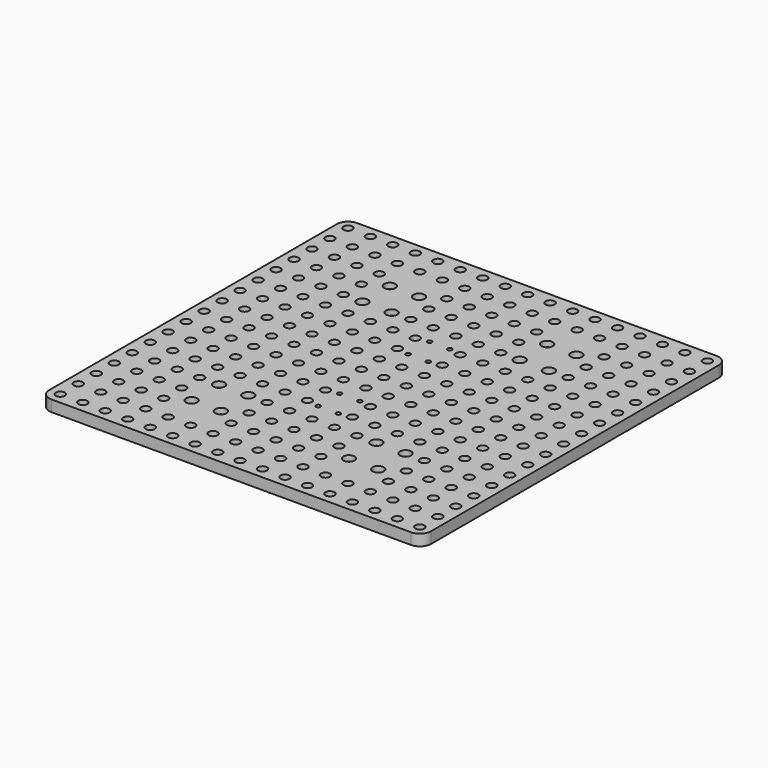
from build123d import *

# Parameters (mm, degrees)
F0_W     = 340
F0_H     = 340
F0_R     = 4
F0_R_2   = 2.5
F0_R_3   = 2
F1_DEPTH = 10
F2_R     = 10
F3_R     = 5
F4_DEPTH = 5


with BuildPart() as f1:
    # F0 (on Top) → F1 (new body)
    with BuildSketch(Plane.XY):
        with Locations((-32.867227, 6.198828)):
            Rectangle(F0_W, F0_H)
        with Locations((-192.967227, -153.801172)):
            Circle(F0_R, mode=Mode.SUBTRACT)
        with Locations((-172.967227, -153.801172)):
            Circle(F0_R, mode=Mode.SUBTRACT)
        with Locations((-192.967227, -133.801172)):
            Circle(F0_R, mode=Mode.SUBTRACT)
        with Locations((-172.967227, -133.801172)):
            Circle(F0_R, mode=Mode.SUBTRACT)
        with Locations((-152.967227, -153.801172)):
            Circle(F0_R, mode=Mode.SUBTRACT)
        with Locations((-132.967227, -153.801172)):
            Circle(F0_R, mode=Mode.SUBTRACT)
        with Locations((-152.967227, -133.801172)):
            Circle(F0_R, mode=Mode.SUBTRACT)
        with Locations((-132.967227, -133.801172)):
            Circle(F0_R, mode=Mode.SUBTRACT)
        with Locations((-192.967227, -113.801172)):
            Circle(F0_R, mode=Mode.SUBTRACT)
        with Locations((-172.967227, -113.801172)):
            Circle(F0_R, mode=Mode.SUBTRACT)
        with Locations((-192.967227, -93.801172)):
            Circle(F0_R, mode=Mode.SUBTRACT)
        with Locations((-172.967227, -93.801172)):
            Circle(F0_R, mode=Mode.SUBTRACT)
        with Locations((-152.967227, -113.801172)):
            Circle(F0_R, mode=Mode.SUBTRACT)
        with Locations((-132.967227, -113.801172)):
            Circle(F0_R, mode=Mode.SUBTRACT)
        with Locations((-152.967227, -93.801172)):
            Circle(F0_R, mode=Mode.SUBTRACT)
        with Locations((-132.967227, -93.801172)):
            Circle(F0_R, mode=Mode.SUBTRACT)
        with Locations((-112.967227, -153.801172)):
            Circle(F0_R, mode=Mode.SUBTRACT)
        with Locations((-92.967227, -153.801172)):
            Circle(F0_R, mode=Mode.SUBTRACT)
        with Locations((-112.967227, -133.801172)):
            Circle(F0_R, mode=Mode.SUBTRACT)
        with Locations((-92.967227, -133.801172)):
            Circle(F0_R, mode=Mode.SUBTRACT)
        with Locations((-72.967227, -153.801172)):
            Circle(F0_R, mode=Mode.SUBTRACT)
        with Locations((-52.967227, -153.801172)):
            Circle(F0_R, mode=Mode.SUBTRACT)
        with Locations((-32.967227, -153.801172)):
            Circle(F0_R, mode=Mode.SUBTRACT)
        with Locations((-72.967227, -133.801172)):
            Circle(F0_R, mode=Mode.SUBTRACT)
        with Locations((-52.967227, -133.801172)):
            Circle(F0_R, mode=Mode.SUBTRACT)
        with Locations((-32.967227, -133.801172)):
            Circle(F0_R, mode=Mode.SUBTRACT)
        with Locations((-115.867227, -104.051172)):
            Circle(F0_R_2, mode=Mode.SUBTRACT)
        with Locations((-89.867227, -104.051172)):
            Circle(F0_R_2, mode=Mode.SUBTRACT)
        with Locations((-72.967227, -113.801172)):
            Circle(F0_R, mode=Mode.SUBTRACT)
        with Locations((-52.967227, -113.801172)):
            Circle(F0_R, mode=Mode.SUBTRACT)
        with Locations((-32.967227, -113.801172)):
            Circle(F0_R, mode=Mode.SUBTRACT)
        with Locations((-72.967227, -93.801172)):
            Circle(F0_R, mode=Mode.SUBTRACT)
        with Locations((-52.967227, -93.801172)):
            Circle(F0_R, mode=Mode.SUBTRACT)
        with Locations((-32.967227, -93.801172)):
            Circle(F0_R, mode=Mode.SUBTRACT)
        with Locations((-192.967227, -73.801172)):
            Circle(F0_R, mode=Mode.SUBTRACT)
        with Locations((-172.967227, -73.801172)):
            Circle(F0_R, mode=Mode.SUBTRACT)
        with Locations((-192.967227, -53.801172)):
            Circle(F0_R, mode=Mode.SUBTRACT)
        with Locations((-172.967227, -53.801172)):
            Circle(F0_R, mode=Mode.SUBTRACT)
        with Locations((-152.967227, -73.801172)):
            Circle(F0_R, mode=Mode.SUBTRACT)
        with Locations((-132.967227, -73.801172)):
            Circle(F0_R, mode=Mode.SUBTRACT)
        with Locations((-152.967227, -53.801172)):
            Circle(F0_R, mode=Mode.SUBTRACT)
        with Locations((-132.967227, -53.801172)):
            Circle(F0_R, mode=Mode.SUBTRACT)
        with Locations((-192.967227, -33.801172)):
            Circle(F0_R, mode=Mode.SUBTRACT)
        with Locations((-172.967227, -33.801172)):
            Circle(F0_R, mode=Mode.SUBTRACT)
        with Locations((-192.967227, -13.801172)):
            Circle(F0_R, mode=Mode.SUBTRACT)
        with Locations((-192.967227, 6.198828)):
            Circle(F0_R, mode=Mode.SUBTRACT)
        with Locations((-172.967227, -13.801172)):
            Circle(F0_R, mode=Mode.SUBTRACT)
        with Locations((-172.967227, 6.198828)):
            Circle(F0_R, mode=Mode.SUBTRACT)
        with Locations((-152.967227, -33.801172)):
            Circle(F0_R, mode=Mode.SUBTRACT)
        with Locations((-132.967227, -33.801172)):
            Circle(F0_R, mode=Mode.SUBTRACT)
        with Locations((-152.967227, -13.801172)):
            Circle(F0_R, mode=Mode.SUBTRACT)
        with Locations((-152.967227, 6.198828)):
            Circle(F0_R, mode=Mode.SUBTRACT)
        with Locations((-132.967227, -13.801172)):
            Circle(F0_R, mode=Mode.SUBTRACT)
        with Locations((-132.967227, 6.198828)):
            Circle(F0_R, mode=Mode.SUBTRACT)
        with Locations((-115.867227, -73.551172)):
            Circle(F0_R_2, mode=Mode.SUBTRACT)
        with Locations((-89.867227, -73.551172)):
            Circle(F0_R_2, mode=Mode.SUBTRACT)
        with Locations((-112.967227, -53.801172)):
            Circle(F0_R, mode=Mode.SUBTRACT)
        with Locations((-92.967227, -53.801172)):
            Circle(F0_R, mode=Mode.SUBTRACT)
        with Locations((-72.967227, -73.801172)):
            Circle(F0_R, mode=Mode.SUBTRACT)
        with Locations((-52.967227, -73.801172)):
            Circle(F0_R, mode=Mode.SUBTRACT)
        with Locations((-32.967227, -73.801172)):
            Circle(F0_R, mode=Mode.SUBTRACT)
        with Locations((-72.967227, -53.801172)):
            Circle(F0_R, mode=Mode.SUBTRACT)
        with Locations((-52.967227, -53.801172)):
            Circle(F0_R, mode=Mode.SUBTRACT)
        with Locations((-41.867227, -55.801172)):
            Circle(F0_R_3, mode=Mode.SUBTRACT)
        with Locations((-112.967227, -33.801172)):
            Circle(F0_R, mode=Mode.SUBTRACT)
        with Locations((-92.967227, -33.801172)):
            Circle(F0_R, mode=Mode.SUBTRACT)
        with Locations((-112.967227, -13.801172)):
            Circle(F0_R, mode=Mode.SUBTRACT)
        with Locations((-112.967227, 6.198828)):
            Circle(F0_R, mode=Mode.SUBTRACT)
        with Locations((-92.967227, -13.801172)):
            Circle(F0_R, mode=Mode.SUBTRACT)
        with Locations((-92.967227, 6.198828)):
            Circle(F0_R, mode=Mode.SUBTRACT)
        with Locations((-72.967227, -33.801172)):
            Circle(F0_R, mode=Mode.SUBTRACT)
        with Locations((-52.967227, -33.801172)):
            Circle(F0_R, mode=Mode.SUBTRACT)
        with Locations((-41.867227, -31.801172)):
            Circle(F0_R_3, mode=Mode.SUBTRACT)
        with Locations((-72.967227, -13.801172)):
            Circle(F0_R, mode=Mode.SUBTRACT)
        with Locations((-72.967227, 6.198828)):
            Circle(F0_R, mode=Mode.SUBTRACT)
        with Locations((-52.967227, -13.801172)):
            Circle(F0_R, mode=Mode.SUBTRACT)
        with Locations((-32.967227, -13.801172)):
            Circle(F0_R, mode=Mode.SUBTRACT)
        with Locations((-52.967227, 6.198828)):
            Circle(F0_R, mode=Mode.SUBTRACT)
        with Locations((-32.967227, 6.198828)):
            Circle(F0_R, mode=Mode.SUBTRACT)
        with Locations((-12.967227, -153.801172)):
            Circle(F0_R, mode=Mode.SUBTRACT)
        with Locations((7.032773, -153.801172)):
            Circle(F0_R, mode=Mode.SUBTRACT)
        with Locations((-12.967227, -133.801172)):
            Circle(F0_R, mode=Mode.SUBTRACT)
        with Locations((7.032773, -133.801172)):
            Circle(F0_R, mode=Mode.SUBTRACT)
        with Locations((27.032773, -153.801172)):
            Circle(F0_R, mode=Mode.SUBTRACT)
        with Locations((47.032773, -153.801172)):
            Circle(F0_R, mode=Mode.SUBTRACT)
        with Locations((27.032773, -133.801172)):
            Circle(F0_R, mode=Mode.SUBTRACT)
        with Locations((47.032773, -133.801172)):
            Circle(F0_R, mode=Mode.SUBTRACT)
        with Locations((-12.967227, -113.801172)):
            Circle(F0_R, mode=Mode.SUBTRACT)
        with Locations((7.032773, -113.801172)):
            Circle(F0_R, mode=Mode.SUBTRACT)
        with Locations((-12.967227, -93.801172)):
            Circle(F0_R, mode=Mode.SUBTRACT)
        with Locations((7.032773, -93.801172)):
            Circle(F0_R, mode=Mode.SUBTRACT)
        with Locations((24.132773, -104.051172)):
            Circle(F0_R_2, mode=Mode.SUBTRACT)
        with Locations((50.132773, -104.051172)):
            Circle(F0_R_2, mode=Mode.SUBTRACT)
        with Locations((67.032773, -153.801172)):
            Circle(F0_R, mode=Mode.SUBTRACT)
        with Locations((87.032773, -153.801172)):
            Circle(F0_R, mode=Mode.SUBTRACT)
        with Locations((67.032773, -133.801172)):
            Circle(F0_R, mode=Mode.SUBTRACT)
        with Locations((87.032773, -133.801172)):
            Circle(F0_R, mode=Mode.SUBTRACT)
        with Locations((107.032773, -153.801172)):
            Circle(F0_R, mode=Mode.SUBTRACT)
        with Locations((127.032773, -153.801172)):
            Circle(F0_R, mode=Mode.SUBTRACT)
        with Locations((107.032773, -133.801172)):
            Circle(F0_R, mode=Mode.SUBTRACT)
        with Locations((127.032773, -133.801172)):
            Circle(F0_R, mode=Mode.SUBTRACT)
        with Locations((67.032773, -113.801172)):
            Circle(F0_R, mode=Mode.SUBTRACT)
        with Locations((87.032773, -113.801172)):
            Circle(F0_R, mode=Mode.SUBTRACT)
        with Locations((67.032773, -93.801172)):
            Circle(F0_R, mode=Mode.SUBTRACT)
        with Locations((87.032773, -93.801172)):
            Circle(F0_R, mode=Mode.SUBTRACT)
        with Locations((107.032773, -113.801172)):
            Circle(F0_R, mode=Mode.SUBTRACT)
        with Locations((127.032773, -113.801172)):
            Circle(F0_R, mode=Mode.SUBTRACT)
        with Locations((107.032773, -93.801172)):
            Circle(F0_R, mode=Mode.SUBTRACT)
        with Locations((127.032773, -93.801172)):
            Circle(F0_R, mode=Mode.SUBTRACT)
        with Locations((-12.967227, -73.801172)):
            Circle(F0_R, mode=Mode.SUBTRACT)
        with Locations((7.032773, -73.801172)):
            Circle(F0_R, mode=Mode.SUBTRACT)
        with Locations((-23.867227, -55.801172)):
            Circle(F0_R_3, mode=Mode.SUBTRACT)
        with Locations((-12.967227, -53.801172)):
            Circle(F0_R, mode=Mode.SUBTRACT)
        with Locations((7.032773, -53.801172)):
            Circle(F0_R, mode=Mode.SUBTRACT)
        with Locations((24.132773, -73.551172)):
            Circle(F0_R_2, mode=Mode.SUBTRACT)
        with Locations((50.132773, -73.551172)):
            Circle(F0_R_2, mode=Mode.SUBTRACT)
        with Locations((27.032773, -53.801172)):
            Circle(F0_R, mode=Mode.SUBTRACT)
        with Locations((47.032773, -53.801172)):
            Circle(F0_R, mode=Mode.SUBTRACT)
        with Locations((-23.867227, -31.801172)):
            Circle(F0_R_3, mode=Mode.SUBTRACT)
        with Locations((-12.967227, -33.801172)):
            Circle(F0_R, mode=Mode.SUBTRACT)
        with Locations((7.032773, -33.801172)):
            Circle(F0_R, mode=Mode.SUBTRACT)
        with Locations((-12.967227, -13.801172)):
            Circle(F0_R, mode=Mode.SUBTRACT)
        with Locations((-12.967227, 6.198828)):
            Circle(F0_R, mode=Mode.SUBTRACT)
        with Locations((7.032773, -13.801172)):
            Circle(F0_R, mode=Mode.SUBTRACT)
        with Locations((7.032773, 6.198828)):
            Circle(F0_R, mode=Mode.SUBTRACT)
        with Locations((27.032773, -33.801172)):
            Circle(F0_R, mode=Mode.SUBTRACT)
        with Locations((47.032773, -33.801172)):
            Circle(F0_R, mode=Mode.SUBTRACT)
        with Locations((27.032773, -13.801172)):
            Circle(F0_R, mode=Mode.SUBTRACT)
        with Locations((27.032773, 6.198828)):
            Circle(F0_R, mode=Mode.SUBTRACT)
        with Locations((47.032773, -13.801172)):
            Circle(F0_R, mode=Mode.SUBTRACT)
        with Locations((47.032773, 6.198828)):
            Circle(F0_R, mode=Mode.SUBTRACT)
        with Locations((67.032773, -73.801172)):
            Circle(F0_R, mode=Mode.SUBTRACT)
        with Locations((87.032773, -73.801172)):
            Circle(F0_R, mode=Mode.SUBTRACT)
        with Locations((67.032773, -53.801172)):
            Circle(F0_R, mode=Mode.SUBTRACT)
        with Locations((87.032773, -53.801172)):
            Circle(F0_R, mode=Mode.SUBTRACT)
        with Locations((107.032773, -73.801172)):
            Circle(F0_R, mode=Mode.SUBTRACT)
        with Locations((127.032773, -73.801172)):
            Circle(F0_R, mode=Mode.SUBTRACT)
        with Locations((107.032773, -53.801172)):
            Circle(F0_R, mode=Mode.SUBTRACT)
        with Locations((127.032773, -53.801172)):
            Circle(F0_R, mode=Mode.SUBTRACT)
        with Locations((67.032773, -33.801172)):
            Circle(F0_R, mode=Mode.SUBTRACT)
        with Locations((87.032773, -33.801172)):
            Circle(F0_R, mode=Mode.SUBTRACT)
        with Locations((67.032773, -13.801172)):
            Circle(F0_R, mode=Mode.SUBTRACT)
        with Locations((67.032773, 6.198828)):
            Circle(F0_R, mode=Mode.SUBTRACT)
        with Locations((87.032773, -13.801172)):
            Circle(F0_R, mode=Mode.SUBTRACT)
        with Locations((87.032773, 6.198828)):
            Circle(F0_R, mode=Mode.SUBTRACT)
        with Locations((107.032773, -33.801172)):
            Circle(F0_R, mode=Mode.SUBTRACT)
        with Locations((127.032773, -33.801172)):
            Circle(F0_R, mode=Mode.SUBTRACT)
        with Locations((107.032773, -13.801172)):
            Circle(F0_R, mode=Mode.SUBTRACT)
        with Locations((107.032773, 6.198828)):
            Circle(F0_R, mode=Mode.SUBTRACT)
        with Locations((127.032773, -13.801172)):
            Circle(F0_R, mode=Mode.SUBTRACT)
        with Locations((127.032773, 6.198828)):
            Circle(F0_R, mode=Mode.SUBTRACT)
        with Locations((-192.967227, 26.198828)):
            Circle(F0_R, mode=Mode.SUBTRACT)
        with Locations((-172.967227, 26.198828)):
            Circle(F0_R, mode=Mode.SUBTRACT)
        with Locations((-192.967227, 46.198828)):
            Circle(F0_R, mode=Mode.SUBTRACT)
        with Locations((-172.967227, 46.198828)):
            Circle(F0_R, mode=Mode.SUBTRACT)
        with Locations((-152.967227, 26.198828)):
            Circle(F0_R, mode=Mode.SUBTRACT)
        with Locations((-132.967227, 26.198828)):
            Circle(F0_R, mode=Mode.SUBTRACT)
        with Locations((-152.967227, 46.198828)):
            Circle(F0_R, mode=Mode.SUBTRACT)
        with Locations((-132.967227, 46.198828)):
            Circle(F0_R, mode=Mode.SUBTRACT)
        with Locations((-192.967227, 66.198828)):
            Circle(F0_R, mode=Mode.SUBTRACT)
        with Locations((-172.967227, 66.198828)):
            Circle(F0_R, mode=Mode.SUBTRACT)
        with Locations((-192.967227, 86.198828)):
            Circle(F0_R, mode=Mode.SUBTRACT)
        with Locations((-172.967227, 86.198828)):
            Circle(F0_R, mode=Mode.SUBTRACT)
        with Locations((-152.967227, 66.198828)):
            Circle(F0_R, mode=Mode.SUBTRACT)
        with Locations((-132.967227, 66.198828)):
            Circle(F0_R, mode=Mode.SUBTRACT)
        with Locations((-152.967227, 86.198828)):
            Circle(F0_R, mode=Mode.SUBTRACT)
        with Locations((-132.967227, 86.198828)):
            Circle(F0_R, mode=Mode.SUBTRACT)
        with Locations((-112.967227, 26.198828)):
            Circle(F0_R, mode=Mode.SUBTRACT)
        with Locations((-92.967227, 26.198828)):
            Circle(F0_R, mode=Mode.SUBTRACT)
        with Locations((-112.967227, 46.198828)):
            Circle(F0_R, mode=Mode.SUBTRACT)
        with Locations((-92.967227, 46.198828)):
            Circle(F0_R, mode=Mode.SUBTRACT)
        with Locations((-72.967227, 26.198828)):
            Circle(F0_R, mode=Mode.SUBTRACT)
        with Locations((-52.967227, 26.198828)):
            Circle(F0_R, mode=Mode.SUBTRACT)
        with Locations((-32.967227, 26.198828)):
            Circle(F0_R, mode=Mode.SUBTRACT)
        with Locations((-72.967227, 46.198828)):
            Circle(F0_R, mode=Mode.SUBTRACT)
        with Locations((-52.967227, 46.198828)):
            Circle(F0_R, mode=Mode.SUBTRACT)
        with Locations((-41.867227, 44.198828)):
            Circle(F0_R_3, mode=Mode.SUBTRACT)
        with Locations((-112.967227, 66.198828)):
            Circle(F0_R, mode=Mode.SUBTRACT)
        with Locations((-92.967227, 66.198828)):
            Circle(F0_R, mode=Mode.SUBTRACT)
        with Locations((-115.867227, 85.948828)):
            Circle(F0_R_2, mode=Mode.SUBTRACT)
        with Locations((-89.867227, 85.948828)):
            Circle(F0_R_2, mode=Mode.SUBTRACT)
        with Locations((-72.967227, 66.198828)):
            Circle(F0_R, mode=Mode.SUBTRACT)
        with Locations((-52.967227, 66.198828)):
            Circle(F0_R, mode=Mode.SUBTRACT)
        with Locations((-41.867227, 68.198828)):
            Circle(F0_R_3, mode=Mode.SUBTRACT)
        with Locations((-72.967227, 86.198828)):
            Circle(F0_R, mode=Mode.SUBTRACT)
        with Locations((-52.967227, 86.198828)):
            Circle(F0_R, mode=Mode.SUBTRACT)
        with Locations((-32.967227, 86.198828)):
            Circle(F0_R, mode=Mode.SUBTRACT)
        with Locations((-192.967227, 106.198828)):
            Circle(F0_R, mode=Mode.SUBTRACT)
        with Locations((-172.967227, 106.198828)):
            Circle(F0_R, mode=Mode.SUBTRACT)
        with Locations((-192.967227, 126.198828)):
            Circle(F0_R, mode=Mode.SUBTRACT)
        with Locations((-172.967227, 126.198828)):
            Circle(F0_R, mode=Mode.SUBTRACT)
        with Locations((-152.967227, 106.198828)):
            Circle(F0_R, mode=Mode.SUBTRACT)
        with Locations((-132.967227, 106.198828)):
            Circle(F0_R, mode=Mode.SUBTRACT)
        with Locations((-152.967227, 126.198828)):
            Circle(F0_R, mode=Mode.SUBTRACT)
        with Locations((-132.967227, 126.198828)):
            Circle(F0_R, mode=Mode.SUBTRACT)
        with Locations((-192.967227, 146.198828)):
            Circle(F0_R, mode=Mode.SUBTRACT)
        with Locations((-172.967227, 146.198828)):
            Circle(F0_R, mode=Mode.SUBTRACT)
        with Locations((-192.967227, 166.198828)):
            Circle(F0_R, mode=Mode.SUBTRACT)
        with Locations((-172.967227, 166.198828)):
            Circle(F0_R, mode=Mode.SUBTRACT)
        with Locations((-152.967227, 146.198828)):
            Circle(F0_R, mode=Mode.SUBTRACT)
        with Locations((-132.967227, 146.198828)):
            Circle(F0_R, mode=Mode.SUBTRACT)
        with Locations((-152.967227, 166.198828)):
            Circle(F0_R, mode=Mode.SUBTRACT)
        with Locations((-132.967227, 166.198828)):
            Circle(F0_R, mode=Mode.SUBTRACT)
        with Locations((-115.867227, 116.448828)):
            Circle(F0_R_2, mode=Mode.SUBTRACT)
        with Locations((-89.867227, 116.448828)):
            Circle(F0_R_2, mode=Mode.SUBTRACT)
        with Locations((-72.967227, 106.198828)):
            Circle(F0_R, mode=Mode.SUBTRACT)
        with Locations((-52.967227, 106.198828)):
            Circle(F0_R, mode=Mode.SUBTRACT)
        with Locations((-32.967227, 106.198828)):
            Circle(F0_R, mode=Mode.SUBTRACT)
        with Locations((-72.967227, 126.198828)):
            Circle(F0_R, mode=Mode.SUBTRACT)
        with Locations((-52.967227, 126.198828)):
            Circle(F0_R, mode=Mode.SUBTRACT)
        with Locations((-32.967227, 126.198828)):
            Circle(F0_R, mode=Mode.SUBTRACT)
        with Locations((-112.967227, 146.198828)):
            Circle(F0_R, mode=Mode.SUBTRACT)
        with Locations((-92.967227, 146.198828)):
            Circle(F0_R, mode=Mode.SUBTRACT)
        with Locations((-112.967227, 166.198828)):
            Circle(F0_R, mode=Mode.SUBTRACT)
        with Locations((-92.967227, 166.198828)):
            Circle(F0_R, mode=Mode.SUBTRACT)
        with Locations((-72.967227, 146.198828)):
            Circle(F0_R, mode=Mode.SUBTRACT)
        with Locations((-52.967227, 146.198828)):
            Circle(F0_R, mode=Mode.SUBTRACT)
        with Locations((-32.967227, 146.198828)):
            Circle(F0_R, mode=Mode.SUBTRACT)
        with Locations((-72.967227, 166.198828)):
            Circle(F0_R, mode=Mode.SUBTRACT)
        with Locations((-52.967227, 166.198828)):
            Circle(F0_R, mode=Mode.SUBTRACT)
        with Locations((-32.967227, 166.198828)):
            Circle(F0_R, mode=Mode.SUBTRACT)
        with Locations((-12.967227, 26.198828)):
            Circle(F0_R, mode=Mode.SUBTRACT)
        with Locations((7.032773, 26.198828)):
            Circle(F0_R, mode=Mode.SUBTRACT)
        with Locations((-23.867227, 44.198828)):
            Circle(F0_R_3, mode=Mode.SUBTRACT)
        with Locations((-12.967227, 46.198828)):
            Circle(F0_R, mode=Mode.SUBTRACT)
        with Locations((7.032773, 46.198828)):
            Circle(F0_R, mode=Mode.SUBTRACT)
        with Locations((27.032773, 26.198828)):
            Circle(F0_R, mode=Mode.SUBTRACT)
        with Locations((47.032773, 26.198828)):
            Circle(F0_R, mode=Mode.SUBTRACT)
        with Locations((27.032773, 46.198828)):
            Circle(F0_R, mode=Mode.SUBTRACT)
        with Locations((47.032773, 46.198828)):
            Circle(F0_R, mode=Mode.SUBTRACT)
        with Locations((-23.867227, 68.198828)):
            Circle(F0_R_3, mode=Mode.SUBTRACT)
        with Locations((-12.967227, 66.198828)):
            Circle(F0_R, mode=Mode.SUBTRACT)
        with Locations((7.032773, 66.198828)):
            Circle(F0_R, mode=Mode.SUBTRACT)
        with Locations((-12.967227, 86.198828)):
            Circle(F0_R, mode=Mode.SUBTRACT)
        with Locations((7.032773, 86.198828)):
            Circle(F0_R, mode=Mode.SUBTRACT)
        with Locations((27.032773, 66.198828)):
            Circle(F0_R, mode=Mode.SUBTRACT)
        with Locations((47.032773, 66.198828)):
            Circle(F0_R, mode=Mode.SUBTRACT)
        with Locations((24.132773, 85.948828)):
            Circle(F0_R_2, mode=Mode.SUBTRACT)
        with Locations((50.132773, 85.948828)):
            Circle(F0_R_2, mode=Mode.SUBTRACT)
        with Locations((67.032773, 26.198828)):
            Circle(F0_R, mode=Mode.SUBTRACT)
        with Locations((87.032773, 26.198828)):
            Circle(F0_R, mode=Mode.SUBTRACT)
        with Locations((67.032773, 46.198828)):
            Circle(F0_R, mode=Mode.SUBTRACT)
        with Locations((87.032773, 46.198828)):
            Circle(F0_R, mode=Mode.SUBTRACT)
        with Locations((107.032773, 26.198828)):
            Circle(F0_R, mode=Mode.SUBTRACT)
        with Locations((127.032773, 26.198828)):
            Circle(F0_R, mode=Mode.SUBTRACT)
        with Locations((107.032773, 46.198828)):
            Circle(F0_R, mode=Mode.SUBTRACT)
        with Locations((127.032773, 46.198828)):
            Circle(F0_R, mode=Mode.SUBTRACT)
        with Locations((67.032773, 66.198828)):
            Circle(F0_R, mode=Mode.SUBTRACT)
        with Locations((87.032773, 66.198828)):
            Circle(F0_R, mode=Mode.SUBTRACT)
        with Locations((67.032773, 86.198828)):
            Circle(F0_R, mode=Mode.SUBTRACT)
        with Locations((87.032773, 86.198828)):
            Circle(F0_R, mode=Mode.SUBTRACT)
        with Locations((107.032773, 66.198828)):
            Circle(F0_R, mode=Mode.SUBTRACT)
        with Locations((127.032773, 66.198828)):
            Circle(F0_R, mode=Mode.SUBTRACT)
        with Locations((107.032773, 86.198828)):
            Circle(F0_R, mode=Mode.SUBTRACT)
        with Locations((127.032773, 86.198828)):
            Circle(F0_R, mode=Mode.SUBTRACT)
        with Locations((-12.967227, 106.198828)):
            Circle(F0_R, mode=Mode.SUBTRACT)
        with Locations((7.032773, 106.198828)):
            Circle(F0_R, mode=Mode.SUBTRACT)
        with Locations((-12.967227, 126.198828)):
            Circle(F0_R, mode=Mode.SUBTRACT)
        with Locations((7.032773, 126.198828)):
            Circle(F0_R, mode=Mode.SUBTRACT)
        with Locations((24.132773, 116.448828)):
            Circle(F0_R_2, mode=Mode.SUBTRACT)
        with Locations((50.132773, 116.448828)):
            Circle(F0_R_2, mode=Mode.SUBTRACT)
        with Locations((-12.967227, 146.198828)):
            Circle(F0_R, mode=Mode.SUBTRACT)
        with Locations((7.032773, 146.198828)):
            Circle(F0_R, mode=Mode.SUBTRACT)
        with Locations((-12.967227, 166.198828)):
            Circle(F0_R, mode=Mode.SUBTRACT)
        with Locations((7.032773, 166.198828)):
            Circle(F0_R, mode=Mode.SUBTRACT)
        with Locations((27.032773, 146.198828)):
            Circle(F0_R, mode=Mode.SUBTRACT)
        with Locations((47.032773, 146.198828)):
            Circle(F0_R, mode=Mode.SUBTRACT)
        with Locations((27.032773, 166.198828)):
            Circle(F0_R, mode=Mode.SUBTRACT)
        with Locations((47.032773, 166.198828)):
            Circle(F0_R, mode=Mode.SUBTRACT)
        with Locations((67.032773, 106.198828)):
            Circle(F0_R, mode=Mode.SUBTRACT)
        with Locations((87.032773, 106.198828)):
            Circle(F0_R, mode=Mode.SUBTRACT)
        with Locations((67.032773, 126.198828)):
            Circle(F0_R, mode=Mode.SUBTRACT)
        with Locations((87.032773, 126.198828)):
            Circle(F0_R, mode=Mode.SUBTRACT)
        with Locations((107.032773, 106.198828)):
            Circle(F0_R, mode=Mode.SUBTRACT)
        with Locations((127.032773, 106.198828)):
            Circle(F0_R, mode=Mode.SUBTRACT)
        with Locations((107.032773, 126.198828)):
            Circle(F0_R, mode=Mode.SUBTRACT)
        with Locations((127.032773, 126.198828)):
            Circle(F0_R, mode=Mode.SUBTRACT)
        with Locations((67.032773, 146.198828)):
            Circle(F0_R, mode=Mode.SUBTRACT)
        with Locations((87.032773, 146.198828)):
            Circle(F0_R, mode=Mode.SUBTRACT)
        with Locations((67.032773, 166.198828)):
            Circle(F0_R, mode=Mode.SUBTRACT)
        with Locations((87.032773, 166.198828)):
            Circle(F0_R, mode=Mode.SUBTRACT)
        with Locations((107.032773, 146.198828)):
            Circle(F0_R, mode=Mode.SUBTRACT)
        with Locations((127.032773, 146.198828)):
            Circle(F0_R, mode=Mode.SUBTRACT)
        with Locations((107.032773, 166.198828)):
            Circle(F0_R, mode=Mode.SUBTRACT)
        with Locations((127.032773, 166.198828)):
            Circle(F0_R, mode=Mode.SUBTRACT)
    extrude(amount=F1_DEPTH)

    # F2
    f2_edges = [f1.edges().sort_by_distance(p)[0] for p in [
        (137.132773, -163.801172, 5),
        (-202.867227, -163.801172, 5),
        (-202.867227, 176.198828, 5),
        (137.132773, 176.198828, 5),
    ]]
    fillet(f2_edges, radius=F2_R)

    # F3 (on face) → F4 (cut)
    with BuildSketch(Plane.XY.offset(10)):
        with Locations((-115.867227, 116.448828)):
            Circle(F3_R)
        with Locations((-89.867227, 116.448828)):
            Circle(F3_R)
        with Locations((-89.867227, 85.948828)):
            Circle(F3_R)
        with Locations((-115.867227, 85.948828)):
            Circle(F3_R)
        with Locations((-115.867227, -73.551172)):
            Circle(F3_R)
        with Locations((-115.867227, -104.051172)):
            Circle(F3_R)
        with Locations((-89.867227, -104.051172)):
            Circle(F3_R)
        with Locations((-89.867227, -73.551172)):
            Circle(F3_R)
        with Locations((24.132773, -73.551172)):
            Circle(F3_R)
        with Locations((24.132773, -104.051172)):
            Circle(F3_R)
        with Locations((50.132773, -104.051172)):
            Circle(F3_R)
        with Locations((50.132773, -73.551172)):
            Circle(F3_R)
        with Locations((50.132773, 85.948828)):
            Circle(F3_R)
        with Locations((24.132773, 85.948828)):
            Circle(F3_R)
        with Locations((24.132773, 116.448828)):
            Circle(F3_R)
        with Locations((50.132773, 116.448828)):
            Circle(F3_R)
    extrude(amount=-F4_DEPTH, mode=Mode.SUBTRACT)


solid = f1.part
